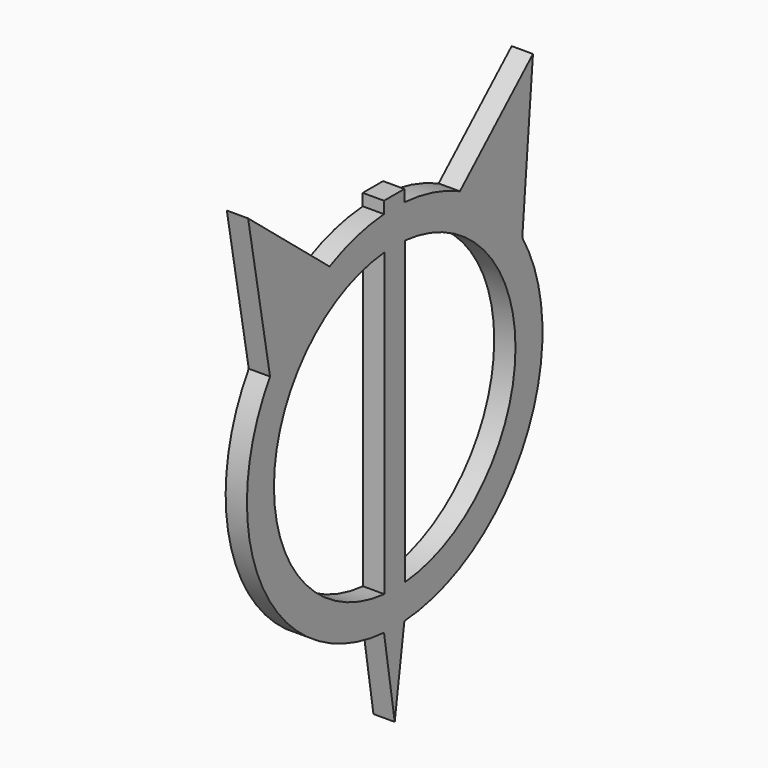
from build123d import *

# Parameters (mm, degrees)
F1_DEPTH = 4


with BuildPart() as f1:
    # F0 (on Right) → F1 (new body)
    with BuildSketch(Plane.YZ):
        with BuildLine():
            Line((-34.453128, 46.921879), (-29.298261, 18.643794))
            ThreePointArc((-29.298261, 18.643794), (-31.027638, -15.596949), (-2.515627, -34.635975))
            Line((-2.515627, -34.635975), (0, -50.421879))
            Line((0, -50.421879), (2.267923, -34.653076))
            ThreePointArc((2.267923, -34.653076), (30.67098, -16.287114), (29.978264, 17.529485))
            Line((29.978264, 17.529485), (32.484375, 46.921879))
            Line((32.484375, 46.921879), (15.311991, 31.169249))
            ThreePointArc((15.311991, 31.169249), (8.960893, 33.551178), (2.267923, 34.653076))
            Line((2.267923, 34.653076), (-2.515627, 34.635975))
            ThreePointArc((-2.515627, 34.635975), (-9.080778, 33.518929), (-15.311991, 31.169249))
            Line((-15.311991, 31.169249), (-34.453128, 46.921879))
        make_face()
        with BuildLine():
            ThreePointArc((-2.451025, -28.274618), (-28.380655, 0), (-2.451025, 28.274618))
            Line((-2.451025, 28.274618), (-2.451025, -28.274618))
        make_face(mode=Mode.SUBTRACT)
        with BuildLine():
            Line((2.451025, -28.274618), (2.451025, 28.274618))
            ThreePointArc((2.451025, 28.274618), (28.380655, 0), (2.451025, -28.274618))
        make_face(mode=Mode.SUBTRACT)
        Polygon((-2.515627, 36.859374), (-2.515627, 34.635975), (2.267923, 34.653076), (2.267923, 36.859374), align=None)
    extrude(amount=F1_DEPTH)


solid = f1.part
